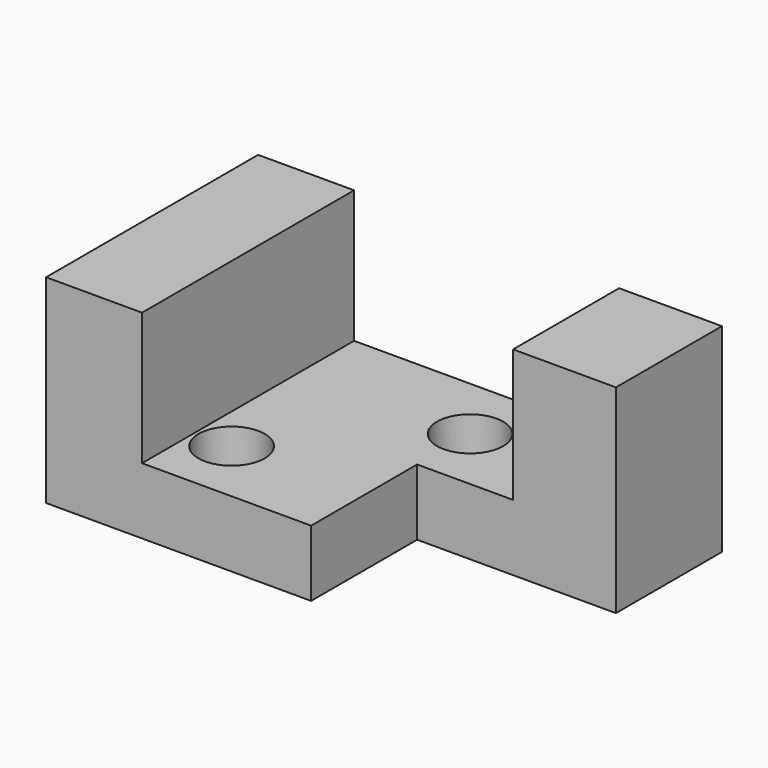
from build123d import *

# Parameters (mm, degrees)
F0_W     = 88.9
F0_H     = 38.1
F1_DEPTH = 50.8
F2_W     = 50.8
F2_H     = 25.4
F3_DEPTH = 50.801
F4_W     = 38.1
F4_H     = 25.4
F5_DEPTH = 38.101
F6_R     = 6.35
F7_DEPTH = 12.701


with BuildPart() as f1:
    # F0 (on Front) → F1 (new body)
    with BuildSketch(Plane.XZ):
        Rectangle(F0_W, F0_H)
    extrude(amount=F1_DEPTH)

    # F2 (on face) → F3 (cut, through all)
    with BuildSketch(Plane.XZ.offset(50.8)):
        with Locations((-0.658147, 6.35)):
            Rectangle(F2_W, F2_H)
    extrude(amount=-F3_DEPTH, mode=Mode.SUBTRACT)

    # F4 (on face) → F5 (cut, through all)
    with BuildSketch(Plane.XY.offset(19.05)):
        with Locations((25.4, -38.1)):
            Rectangle(F4_W, F4_H)
    extrude(amount=-F5_DEPTH, mode=Mode.SUBTRACT)

    # F6 (on face) → F7 (cut, through all)
    with BuildSketch(Plane.XY.offset(-6.35)):
        with Locations((6.35, -12.7)):
            Circle(F6_R)
        with Locations((-19.05, -38.1)):
            Circle(F6_R)
    extrude(amount=-F7_DEPTH, mode=Mode.SUBTRACT)


solid = f1.part
